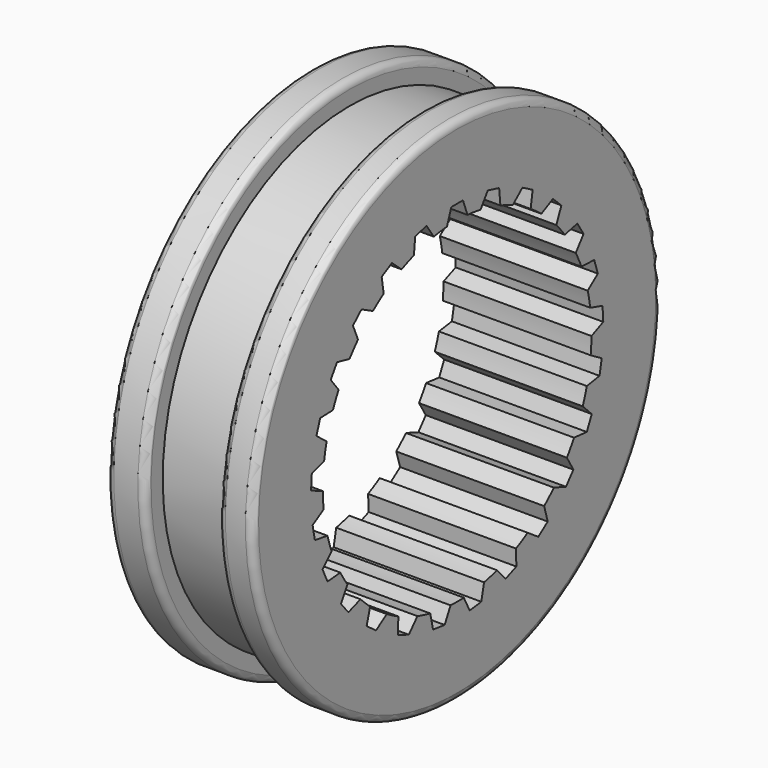
from build123d import *

# Parameters (mm, degrees)
F3_DEPTH = 25
F4_COUNT = 25


with BuildPart() as f1:
    # F0 (on Front) → F1 (revolve)
    with BuildSketch(Plane.XZ):
        with BuildLine():
            Line((5, 15.7740319341), (5, 21.2740319341))
            ThreePointArc((5, 21.2740319341), (4.8535533906, 21.6275853247), (4.5, 21.7740319341))
            Line((4.5, 21.7740319341), (3.1358124877, 21.7740319341))
            ThreePointArc((3.1358124877, 21.7740319341), (2.7822590971, 21.6275853247), (2.6358124877, 21.2740319341))
            Line((2.6358124877, 21.2740319341), (2.6358124877, 20.2740319341))
            Line((2.6358124877, 20.2740319341), (-2.3641875123, 20.2740319341))
            Line((-2.3641875123, 20.2740319341), (-2.3641875123, 21.2740319341))
            ThreePointArc((-2.3641875123, 21.2740319341), (-2.5106341217, 21.6275853247), (-2.8641875123, 21.7740319341))
            Line((-2.8641875123, 21.7740319341), (-4.5107149994, 21.7740319341))
            ThreePointArc((-4.5107149994, 21.7740319341), (-4.8604185225, 21.6313937199), (-5.0105977014, 21.2848617178))
            Line((-5.0105977014, 21.2848617178), (-5.1299878986, 15.7740319341))
            Line((-5.1299878986, 15.7740319341), (0, 15.7740319341))
            Line((0, 15.7740319341), (5, 15.7740319341))
        make_face()
    revolve(axis=Axis((-3.1572775915, 0, 4.2740319341), (-1, 0, 0)))

    # F2 (on face) → F3 (cut)
    with BuildSketch(Plane.YZ.offset(5)):
        with BuildLine():
            Line((0.5, 16.7740319341), (0, 16.7740319341))
            Line((0, 16.7740319341), (-0.5, 16.7740319341))
            Line((-0.5, 16.7740319341), (-0.8761352278, 15.740608889))
            ThreePointArc((-0.8761352278, 15.740608889), (0, 15.7740319341), (0.8761352278, 15.740608889))
            Line((0.8761352278, 15.740608889), (0.5, 16.7740319341))
        make_face()
    f3 = extrude(amount=-F3_DEPTH, mode=Mode.SUBTRACT)

    # F4: F3 ×25 about axis
    f4_axis = Axis((-5.1299878986, 0, 4.2740319341), (1, 0, 0))
    for i in range(1, F4_COUNT):
        add(f3.rotate(f4_axis, i * 360 / F4_COUNT), mode=Mode.SUBTRACT)


solid = f1.part
